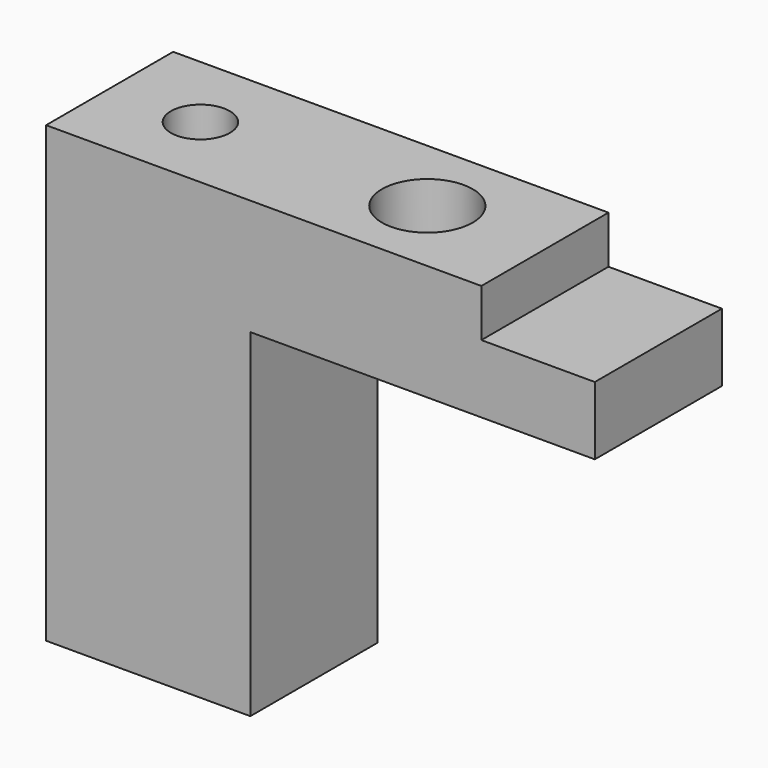
from build123d import *

# Parameters (mm, degrees)
PAD025_DEPTH      = 3.5
PAD025_DEPTH_BACK = 3.5
SKETCH047_R       = 2
SKETCH047_R_2     = 1.3
POCKET_DEPTH      = 8
SKETCH049_R       = 1.3
POCKET001_DEPTH   = 8


with BuildPart() as part:
    # Sketch → Pad025 (new body, two sides)
    with BuildSketch(Plane.XZ) as pad025_sk:
        Polygon((-58.82, -4.5), (-58.82, -6.6), (-53.82, -6.6), (-53.82, -9.6), (-69, -9.6), (-69, -24.5), (-78, -24.5), (-78, -4.5), align=None)
    extrude(amount=PAD025_DEPTH)
    extrude(pad025_sk.sketch, amount=-PAD025_DEPTH_BACK)

    # Sketch047 → Pocket (cut)
    with BuildSketch(Plane(origin=(0, 0, -9.6), x_dir=(1, 0, 0), z_dir=(0, 0, -1))):
        with Locations((-64, 0)):
            Circle(SKETCH047_R)
        with Locations((-74, 0)):
            Circle(SKETCH047_R_2)
    extrude(amount=-POCKET_DEPTH, mode=Mode.SUBTRACT)

    # Sketch049 → Pocket001 (cut)
    with BuildSketch(Plane(origin=(-78, 0, 0), x_dir=(0, 0, -1), z_dir=(-1, 0, 0))):
        with Locations((18, 0)):
            Circle(SKETCH049_R)
    extrude(amount=-POCKET001_DEPTH, mode=Mode.SUBTRACT)


with BuildPart() as part_1:
    # Clone008 placement: moved
    add(part.part.moved(Location((0, -27, 0))))


solid = part_1.part
